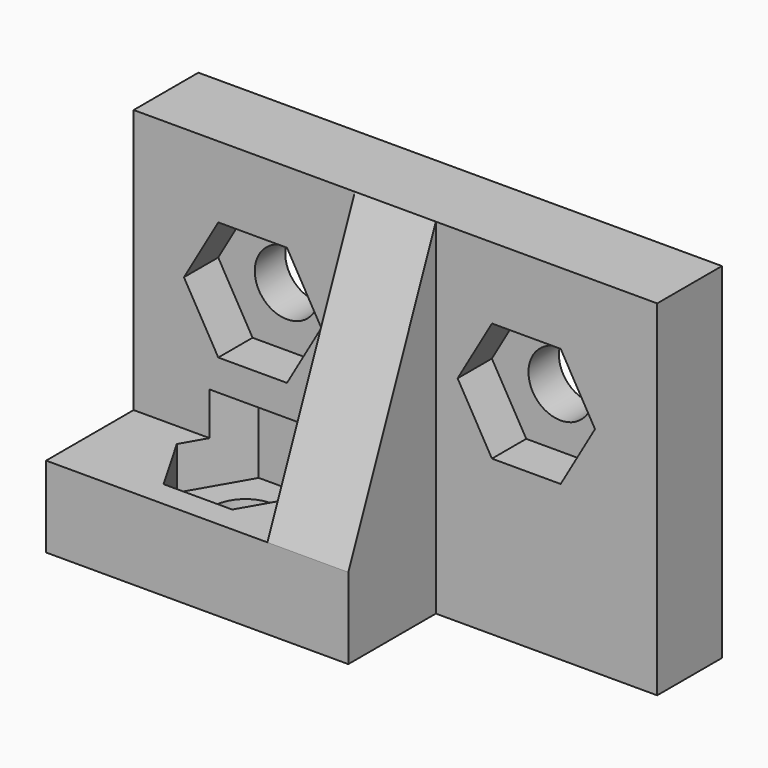
from build123d import *

# Parameters (mm, degrees)
EXTRUDE003_DEPTH  = 3.6
CYLINDER002_R     = 1.35
CYLINDER002_DEPTH = 3.4
EXTRUDE002_DEPTH  = 1.8
CYLINDER003_R     = 1.35
CYLINDER003_DEPTH = 3.4
EXTRUDE001_DEPTH  = 1.8
CYLINDER_R        = 1.35
CYLINDER_DEPTH    = 3.4
BOX_W             = 22
BOX_H             = 3.4
BOX_DEPTH         = 14.5
BOX001_W          = 12.7
BOX001_H          = 4.6
BOX001_DEPTH      = 3.4
EXTRUDE_DEPTH     = 3.4


with BuildPart() as extrude003:
    # Sketch003 → Extrude003 (new body)
    with BuildSketch(Plane(origin=(5.5, -1, 1.6), x_dir=(1, 0, 0), z_dir=(0, 0, 1))):
        Polygon((2.8868, 0), (1.4434, 2.500042), (-1.4434, 2.500042), (-2.8868, 0), (-1.4434, -2.500042), (1.4434, -2.500042), align=None)
    extrude(amount=EXTRUDE003_DEPTH)


with BuildPart() as hole03:
    # Cylinder002 → Cylinder002 (new body)
    with BuildSketch(Plane(origin=(5.5, -1, 0), x_dir=(0, 1, 0), z_dir=(0, 0, 1))):
        Circle(CYLINDER002_R)
    extrude(amount=CYLINDER002_DEPTH)

    # Fusion002: union Extrude003
    add(extrude003.part)


with BuildPart() as extrude002:
    # Sketch002 → Extrude002 (new body)
    with BuildSketch(Plane(origin=(16.5, 1.8, 9), x_dir=(1, 0, 0), z_dir=(0, -1, 0))):
        Polygon((2.8868, 0), (1.4434, 2.500042), (-1.4434, 2.500042), (-2.8868, 0), (-1.4434, -2.500042), (1.4434, -2.500042), align=None)
    extrude(amount=EXTRUDE002_DEPTH)


with BuildPart() as hole02:
    # Cylinder003 → Cylinder003 (new body)
    with BuildSketch(Plane(origin=(16.5, 3.4, 9), x_dir=(1, 0, 0), z_dir=(0, -1, 0))):
        Circle(CYLINDER003_R)
    extrude(amount=CYLINDER003_DEPTH)

    # Fusion001: union Extrude002
    add(extrude002.part)


with BuildPart() as extrude001:
    # Sketch001 → Extrude001 (new body)
    with BuildSketch(Plane(origin=(5, 1.8, 9), x_dir=(1, 0, 0), z_dir=(0, -1, 0))):
        Polygon((2.8868, 0), (1.4434, 2.500042), (-1.4434, 2.500042), (-2.8868, 0), (-1.4434, -2.500042), (1.4434, -2.500042), align=None)
    extrude(amount=EXTRUDE001_DEPTH)


with BuildPart() as hole01:
    # Cylinder → Cylinder (new body)
    with BuildSketch(Plane(origin=(5, 3.4, 9), x_dir=(1, 0, 0), z_dir=(0, -1, 0))):
        Circle(CYLINDER_R)
    extrude(amount=CYLINDER_DEPTH)

    # Fusion: union Extrude001
    add(extrude001.part)


with BuildPart() as cut001:
    # Box → Box (new body)
    with BuildSketch(Plane.XY):
        with Locations((11, 1.7)):
            Rectangle(BOX_W, BOX_H)
    extrude(amount=BOX_DEPTH)

    # Cut: cut Hole01
    add(hole01.part, mode=Mode.SUBTRACT)

    # Cut001: cut Hole02
    add(hole02.part, mode=Mode.SUBTRACT)


with BuildPart() as cut002:
    # Box001 → Box001 (new body)
    with BuildSketch(Plane(origin=(0, -4.6, 0), x_dir=(1, 0, 0), z_dir=(0, 0, 1))):
        with Locations((6.35, 2.3)):
            Rectangle(BOX001_W, BOX001_H)
    extrude(amount=BOX001_DEPTH)

    # Fusion003: union Cut001
    add(cut001.part)

    # Cut002: cut Hole03
    add(hole03.part, mode=Mode.SUBTRACT)


with BuildPart() as left_hand_bracket:
    # Sketch → Extrude (new body)
    with BuildSketch(Plane(origin=(0, 0, 3.4), x_dir=(0, 1, 0), z_dir=(1, 0, 0))):
        Polygon((0, 11.1), (0, 0), (-4.6, 0), align=None)
    extrude(amount=EXTRUDE_DEPTH)


with BuildPart() as left_hand_bracket_1:
    # Extrude placement: moved
    add(left_hand_bracket.part.moved(Location((9.3, 0, 0))))

    # Fusion004: union Cut002
    add(cut002.part)


solid = left_hand_bracket_1.part
